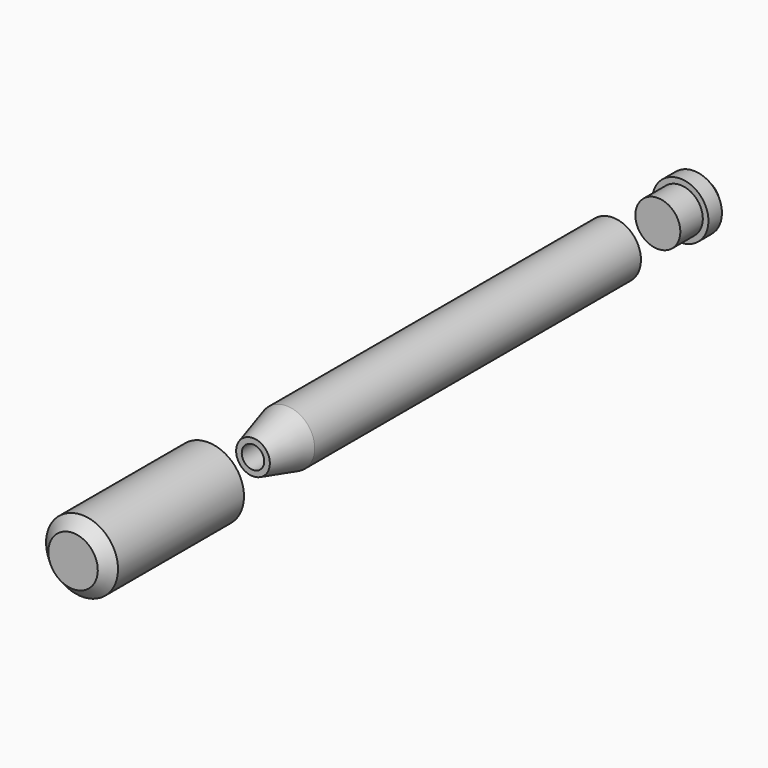
from build123d import *


with BuildPart() as f1:
    # F0 (on Right) → F1 (revolve)
    with BuildSketch(Plane.YZ):
        Polygon((-115, 0), (-115, 4.4), (-90, 4.4), (-90, 6.4), (-118, 6.4), (-120, 4.4), (-120, 0), align=None)
        Polygon((0, 5), (-72.535898, 5), (-80, 3), (-80, 2), (-70, 2), (-70, 3.5), (0, 3.5), align=None)
        Polygon((18, 5), (15, 5), (15, 4), (10, 4), (10, 0), (20, 0), (20, 3), align=None)
    revolve(axis=Axis((0, -39.999895, 0), (0, 1, 0)))


solid = f1.part
